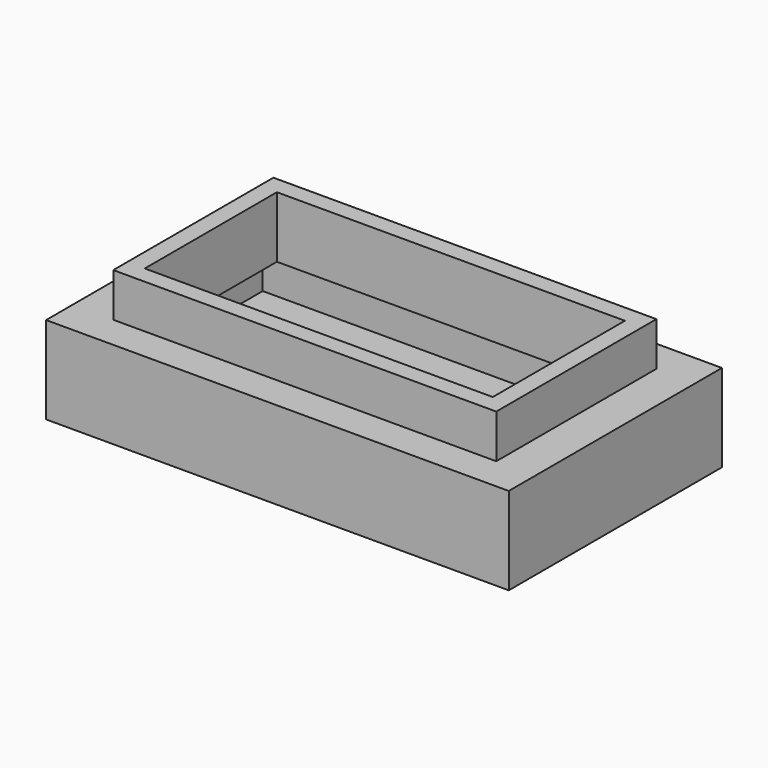
from build123d import *

# Parameters (mm, degrees)
F0_W     = 67.1657696366
F0_H     = 38.6754088104
F1_DEPTH = 12.7
F2_W     = 55.595561862
F2_H     = 29.0567195043
F3_DEPTH = 6.35
F4_T     = -2.54


with BuildPart() as f1:
    # F0 (on Top) → F1 (new body)
    with BuildSketch(Plane.XY):
        with Locations((33.5828848183, -19.3377044052)):
            Rectangle(F0_W, F0_H)
    extrude(amount=F1_DEPTH)

    # F2 (on face) → F3 (join)
    with BuildSketch(Plane.XY.offset(12.7)):
        with Locations((33.7035246193, -19.3377044052)):
            Rectangle(F2_W, F2_H)
    extrude(amount=F3_DEPTH)

    # F4
    f4_openings = [f1.faces().sort_by_distance(p)[0] for p in [
        (33.703525, -19.337704, 19.05),
    ]]
    offset(amount=F4_T, openings=f4_openings, kind=Kind.INTERSECTION)


solid = f1.part
